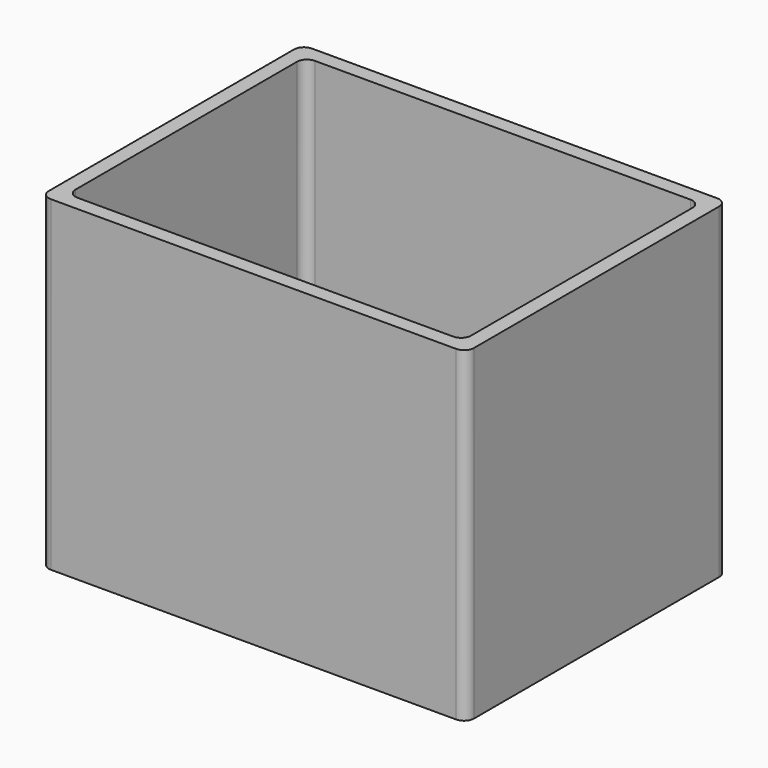
from build123d import *

# Parameters (mm, degrees)
F0_W     = 43
F0_H     = 33
F1_DEPTH = 33
F2_W     = 40
F2_H     = 30
F3_DEPTH = 30
F4_R     = 1
F5_R     = 1


with BuildPart() as f1:
    # F0 (on Top) → F1 (new body)
    with BuildSketch(Plane.XY):
        Rectangle(F0_W, F0_H)
    extrude(amount=F1_DEPTH)

    # F2 (on face) → F3 (cut)
    with BuildSketch(Plane.XY.offset(33)):
        Rectangle(F2_W, F2_H)
    extrude(amount=-F3_DEPTH, mode=Mode.SUBTRACT)

    # F4
    f4_edges = [f1.edges().sort_by_distance(p)[0] for p in [
        (-21.5, -16.5, 16.5),
        (21.5, -16.5, 16.5),
        (21.5, 16.5, 16.5),
        (-21.5, 16.5, 16.5),
    ]]
    fillet(f4_edges, radius=F4_R)

    # F5
    f5_edges = [f1.edges().sort_by_distance(p)[0] for p in [
        (-20, -15, 18),
        (-20, 15, 18),
        (20, 15, 18),
        (20, -15, 18),
    ]]
    fillet(f5_edges, radius=F5_R)


solid = f1.part
